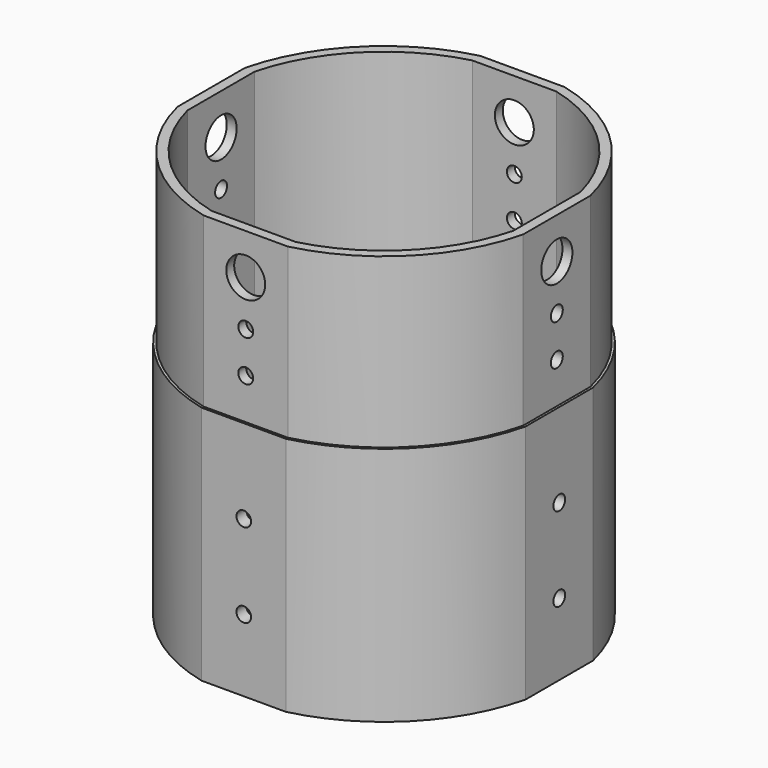
from build123d import *

# Parameters (mm, degrees)
F1_DEPTH  = 100
F3_DEPTH  = 70
F4_R      = 8.1
F4_R_2    = 3.1
F5_DEPTH  = 4.1237650092
F6_R      = 8.1
F6_R_2    = 3.1
F7_DEPTH  = 4.1237650092
F8_R      = 8.1
F8_R_2    = 3.1
F9_DEPTH  = 4.1237650092
F10_R     = 8.1
F10_R_2   = 3.1
F11_DEPTH = 4.1237650092
F12_R     = 3.05
F13_DEPTH = 5.1525521704
F14_R     = 3.05
F15_DEPTH = 5.1525521704
F16_R     = 3.05
F17_DEPTH = 5.1525521704
F18_R     = 3.05
F19_DEPTH = 5.1525521704


with BuildPart() as f1:
    # F0 (on Top) → F1 (new body)
    with BuildSketch(Plane.XY):
        with BuildLine():
            Line((17.5, 72.9297607291), (-17.5, 72.9297607291))
            ThreePointArc((-17.5, 72.9297607291), (-53.033008589, 53.033008589), (-72.9297607291, 17.5))
            Line((-72.9297607291, 17.5), (-72.9297607291, -17.5))
            ThreePointArc((-72.9297607291, -17.5), (-53.033008589, -53.033008589), (-17.5, -72.9297607291))
            Line((-17.5, -72.9297607291), (17.5, -72.9297607291))
            ThreePointArc((17.5, -72.9297607291), (53.033008589, -53.033008589), (72.9297607291, -17.5))
            Line((72.9297607291, -17.5), (72.9297607291, 17.5))
            ThreePointArc((72.9297607291, 17.5), (53.033008589, 53.033008589), (17.5, 72.9297607291))
        make_face()
        with BuildLine():
            ThreePointArc((-67.7772085586, 17.5), (-49.4974746831, 49.4974746831), (-17.5, 67.7772085586))
            Line((-17.5, 67.7772085586), (17.5, 67.7772085586))
            ThreePointArc((17.5, 67.7772085586), (49.4974746831, 49.4974746831), (67.7772085586, 17.5))
            Line((67.7772085586, 17.5), (67.7772085586, -17.5))
            ThreePointArc((67.7772085586, -17.5), (49.4974746831, -49.4974746831), (17.5, -67.7772085586))
            Line((17.5, -67.7772085586), (-17.5, -67.7772085586))
            ThreePointArc((-17.5, -67.7772085586), (-49.4974746831, -49.4974746831), (-67.7772085586, -17.5))
            Line((-67.7772085586, -17.5), (-67.7772085586, 17.5))
        make_face(mode=Mode.SUBTRACT)
    extrude(amount=F1_DEPTH)

    # F2 (on face) → F3 (join)
    with BuildSketch(Plane.XY.offset(100)):
        with BuildLine():
            Line((17.5, 71.9009735678), (-17.5, 71.9009735678))
            ThreePointArc((-17.5, 71.9009735678), (-52.3259018078, 52.3259018078), (-71.9009735678, 17.5))
            Line((-71.9009735678, 17.5), (-71.9009735678, -17.5))
            ThreePointArc((-71.9009735678, -17.5), (-52.3259018078, -52.3259018078), (-17.5, -71.9009735678))
            Line((-17.5, -71.9009735678), (17.5, -71.9009735678))
            ThreePointArc((17.5, -71.9009735678), (52.3259018078, -52.3259018078), (71.9009735678, -17.5))
            Line((71.9009735678, -17.5), (71.9009735678, 17.5))
            ThreePointArc((71.9009735678, 17.5), (52.3259018078, 52.3259018078), (17.5, 71.9009735678))
        make_face()
        with BuildLine():
            ThreePointArc((-67.7772085586, 17.5), (-49.4974746831, 49.4974746831), (-17.5, 67.7772085586))
            Line((-17.5, 67.7772085586), (17.5, 67.7772085586))
            ThreePointArc((17.5, 67.7772085586), (49.4974746831, 49.4974746831), (67.7772085586, 17.5))
            Line((67.7772085586, 17.5), (67.7772085586, -17.5))
            ThreePointArc((67.7772085586, -17.5), (49.4974746831, -49.4974746831), (17.5, -67.7772085586))
            Line((17.5, -67.7772085586), (-17.5, -67.7772085586))
            ThreePointArc((-17.5, -67.7772085586), (-49.4974746831, -49.4974746831), (-67.7772085586, -17.5))
            Line((-67.7772085586, -17.5), (-67.7772085586, 17.5))
        make_face(mode=Mode.SUBTRACT)
    extrude(amount=F3_DEPTH)

    # F4 (on face) → F5 (cut, through all)
    with BuildSketch(Plane.XZ.offset(71.9009735678)):
        with Locations((0, 153)):
            Circle(F4_R)
        with Locations((0, 134)):
            Circle(F4_R_2)
        with Locations((0, 117)):
            Circle(F4_R_2)
    extrude(amount=-F5_DEPTH, mode=Mode.SUBTRACT)

    # F6 (on face) → F7 (cut, through all)
    with BuildSketch(Plane.YZ.offset(71.9009735678)):
        with Locations((0, 153)):
            Circle(F6_R)
        with Locations((0, 134)):
            Circle(F6_R_2)
        with Locations((0, 117)):
            Circle(F6_R_2)
    extrude(amount=-F7_DEPTH, mode=Mode.SUBTRACT)

    # F8 (on face) → F9 (cut, through all)
    with BuildSketch(Plane(origin=(0, 71.9009735678, 0), x_dir=(-1, 0, 0), z_dir=(0, 1, 0))):
        with Locations((0, 153)):
            Circle(F8_R)
        with Locations((0, 134)):
            Circle(F8_R_2)
        with Locations((0, 117)):
            Circle(F8_R_2)
    extrude(amount=-F9_DEPTH, mode=Mode.SUBTRACT)

    # F10 (on face) → F11 (cut, through all)
    with BuildSketch(Plane(origin=(-71.9009735678, 0, 0), x_dir=(0, -1, 0), z_dir=(-1, 0, 0))):
        with Locations((0, 153)):
            Circle(F10_R)
        with Locations((0, 134)):
            Circle(F10_R_2)
        with Locations((0, 117)):
            Circle(F10_R_2)
    extrude(amount=-F11_DEPTH, mode=Mode.SUBTRACT)

    # F12 (on face) → F13 (cut, through all)
    with BuildSketch(Plane.YZ.offset(72.9297607291)):
        with Locations((0, 65)):
            Circle(F12_R)
        with Locations((0, 30)):
            Circle(F12_R)
    extrude(amount=-F13_DEPTH, mode=Mode.SUBTRACT)

    # F14 (on face) → F15 (cut, through all)
    with BuildSketch(Plane.XZ.offset(72.9297607291)):
        with Locations((0, 65)):
            Circle(F14_R)
        with Locations((0, 30)):
            Circle(F14_R)
    extrude(amount=-F15_DEPTH, mode=Mode.SUBTRACT)

    # F16 (on face) → F17 (cut, through all)
    with BuildSketch(Plane(origin=(0, 72.9297607291, 0), x_dir=(-1, 0, 0), z_dir=(0, 1, 0))):
        with Locations((0, 65)):
            Circle(F16_R)
        with Locations((0, 30)):
            Circle(F16_R)
    extrude(amount=-F17_DEPTH, mode=Mode.SUBTRACT)

    # F18 (on face) → F19 (cut, through all)
    with BuildSketch(Plane(origin=(-72.9297607291, 0, 0), x_dir=(0, -1, 0), z_dir=(-1, 0, 0))):
        with Locations((0, 65)):
            Circle(F18_R)
        with Locations((0, 30)):
            Circle(F18_R)
    extrude(amount=-F19_DEPTH, mode=Mode.SUBTRACT)


solid = f1.part
